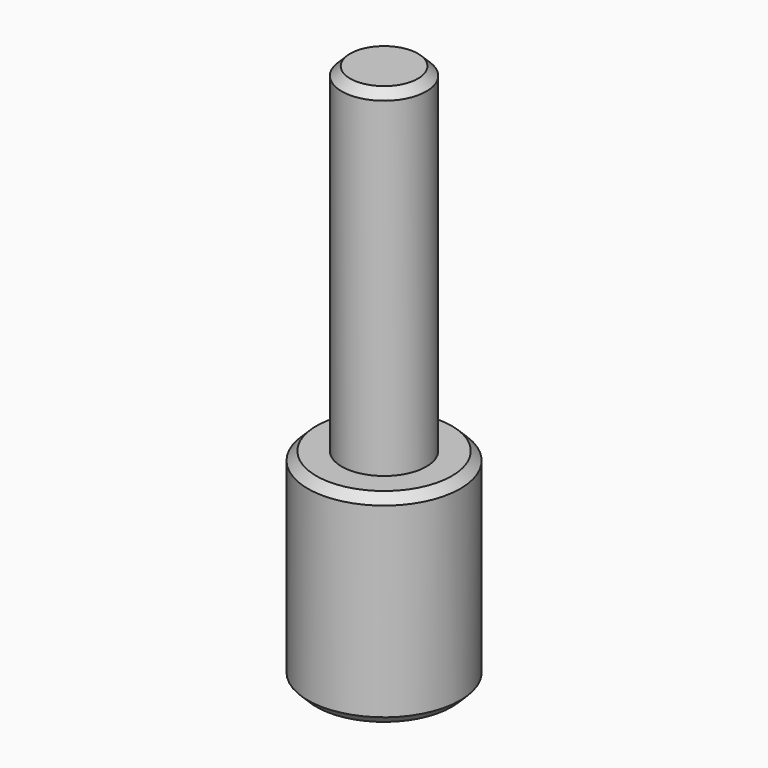
from build123d import *

# Parameters (mm, degrees)
F0_R     = 4.5
F0_R_2   = 1.5
F1_DEPTH = 6
F2_R     = 2.5
F3_DEPTH = 20
F4_SIZE  = 0.5
F5_R     = 1.5
F6_DEPTH = 4.501


with BuildPart() as f1:
    # F0 (on Top) → F1 (new body, symmetric)
    with BuildSketch(Plane.XY):
        Circle(F0_R)
        Circle(F0_R_2, mode=Mode.SUBTRACT)
    extrude(amount=F1_DEPTH, both=True)

    # F2 (on face) → F3 (join)
    with BuildSketch(Plane.XY.offset(6)):
        Circle(F2_R)
    extrude(amount=F3_DEPTH)

    # F4
    f4_edges = [f1.edges().sort_by_distance(p)[0] for p in [
        (-2.5, 0, 26),
        (-4.5, 0, 6),
        (-1.5, 0, -6),
        (-4.5, 0, -6),
    ]]
    chamfer(f4_edges, length=F4_SIZE)

    # F5 (on Front) → F6 (cut, through all)
    with BuildSketch(Plane.XZ):
        Circle(F5_R)
    extrude(amount=-F6_DEPTH, mode=Mode.SUBTRACT)


solid = f1.part
